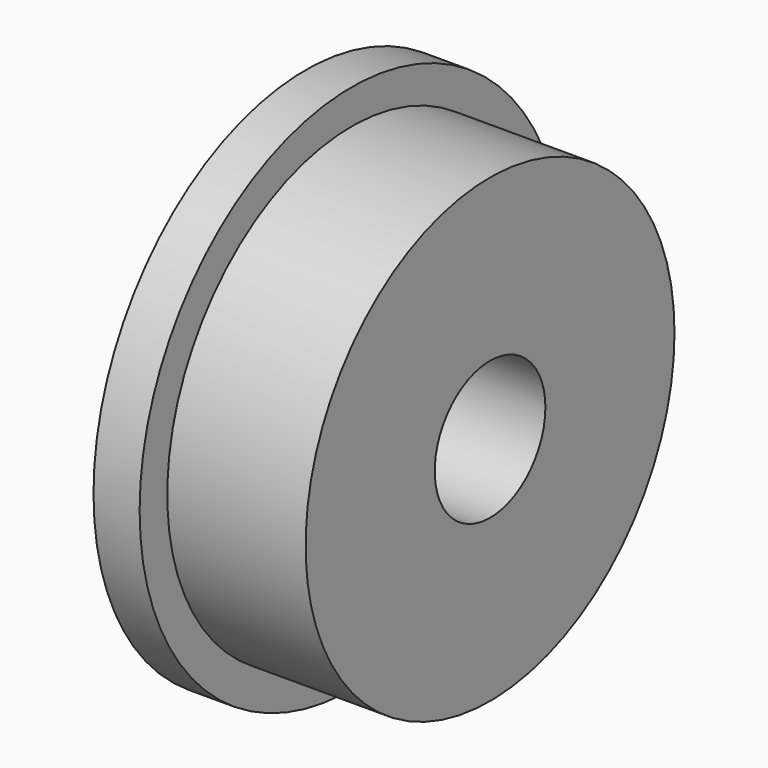
from build123d import *


with BuildPart() as part:
    # Sketch → Revolution (revolve)
    with BuildSketch(Plane.XY):
        Polygon((0, 1.5), (0, 5.75), (1, 5.75), (1, 5), (4, 5), (4, 1.5), align=None)
    revolve(axis=Axis((0, 0, 0), (1, 0, 0)))


solid = part.part
